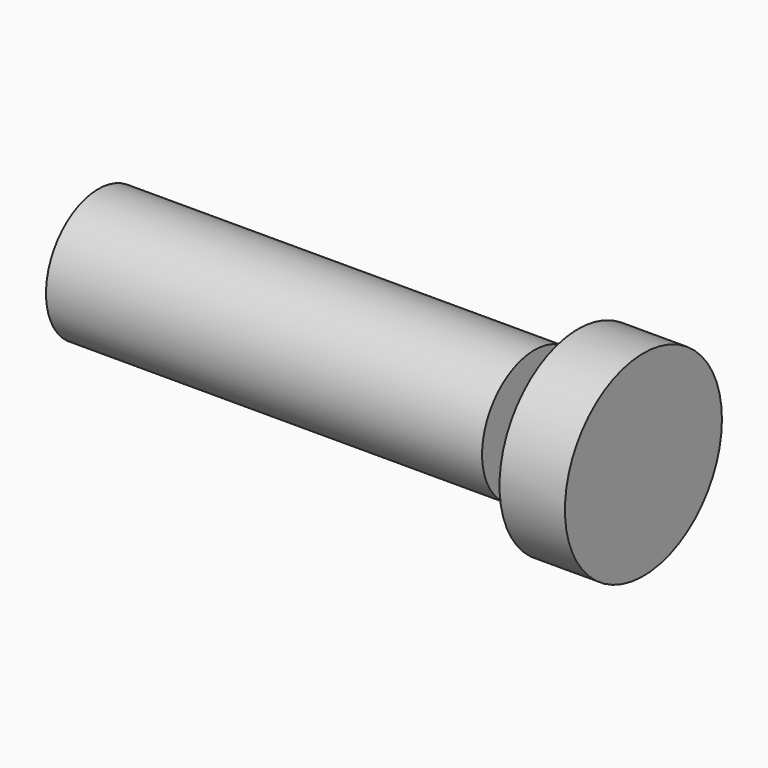
from build123d import *

# Parameters (mm, degrees)
F0_R     = 30
F1_DEPTH = 200
F5_START = 20
F4_R     = 45
F5_DEPTH = 30


with BuildPart() as f1:
    # F0 (on Right) → F1 (new body)
    with BuildSketch(Plane.YZ):
        Circle(F0_R)
    extrude(amount=-F1_DEPTH)

    # F2 (on Top) → F3 (revolve)
    with BuildSketch(Plane.XY):
        Polygon((0, 12.6511614473), (0, 0), (30.3976608496, 0), (30.3976608496, 8), align=None)
    revolve(axis=Axis((15.1988304248, 0, 0), (1, 0, 0)))

    # F4 (on Right) → F5 (join)
    with BuildSketch(Plane.YZ.offset(F5_START)):
        Circle(F4_R)
    extrude(amount=F5_DEPTH)


solid = f1.part
